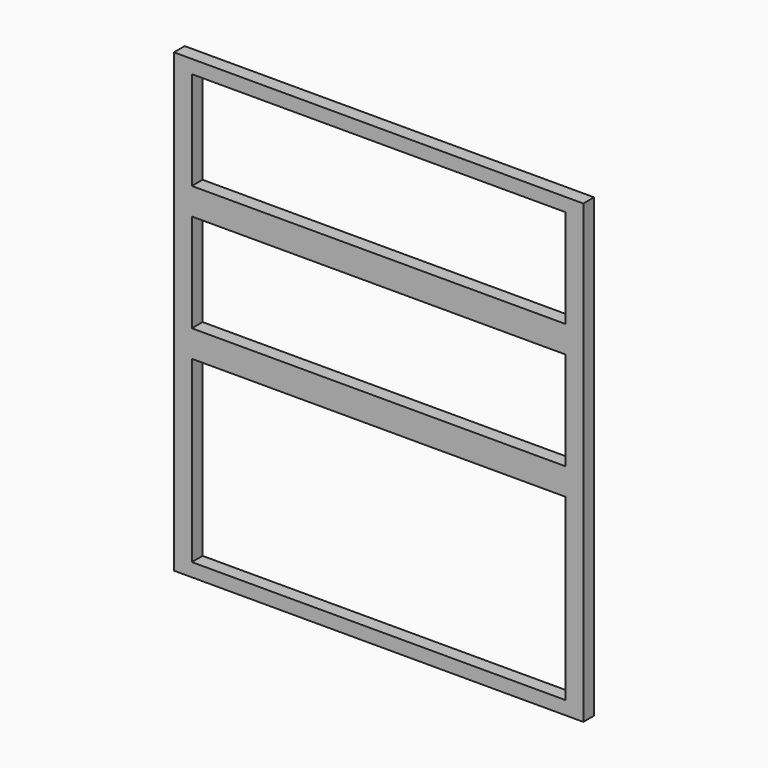
from build123d import *

# Parameters (mm, degrees)
F0_W     = 581.025
F0_H     = 647.7
F0_W_2   = 530.225
F0_H_2   = 254
F0_H_3   = 139.7
F1_DEPTH = 19.05


with BuildPart() as f1:
    # F0 (on Front) → F1 (new body)
    with BuildSketch(Plane.XZ):
        with Locations((0, 323.85)):
            Rectangle(F0_W, F0_H)
        with Locations((0, 146.05)):
            Rectangle(F0_W_2, F0_H_2, mode=Mode.SUBTRACT)
        with Locations((0, 381)):
            Rectangle(F0_W_2, F0_H_3, mode=Mode.SUBTRACT)
        with Locations((0, 558.8)):
            Rectangle(F0_W_2, F0_H_3, mode=Mode.SUBTRACT)
    extrude(amount=-F1_DEPTH)


solid = f1.part
